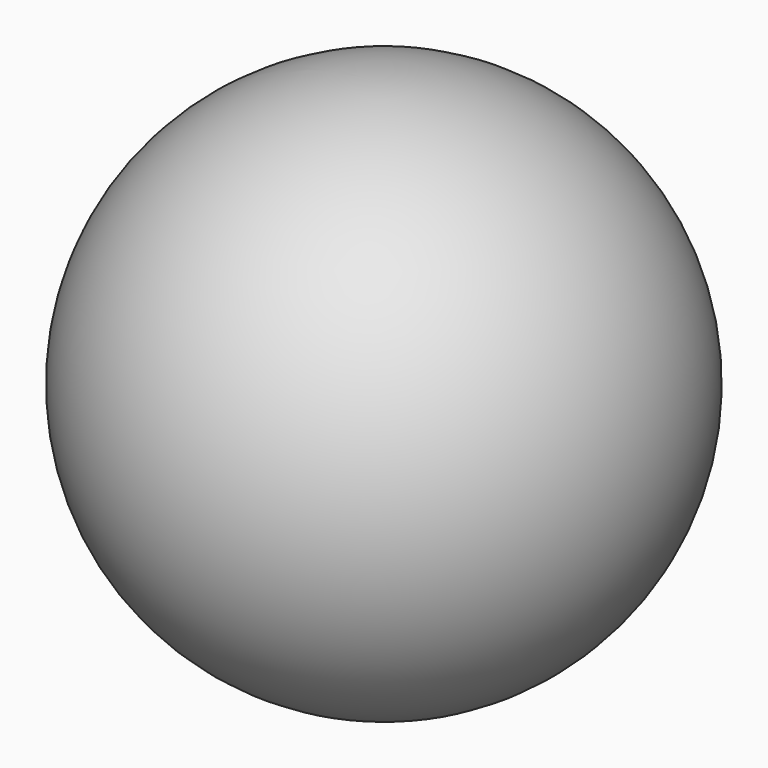
from build123d import *

# Parameters (mm, degrees)
F2_R     = 2
F3_DEPTH = 25


with BuildPart() as f1:
    # F0 (on Front) → F1 (revolve)
    with BuildSketch(Plane.XZ):
        with BuildLine():
            Line((0, -5), (0, 5))
            ThreePointArc((0, 5), (-5, 0), (0, -5))
        make_face()
    revolve(axis=Axis((0, 0, 0), (0, 0, -1)))

    # F2 (on Top) → F3 (cut)
    with BuildSketch(Plane.XY):
        Circle(F2_R)
    extrude(amount=-F3_DEPTH, mode=Mode.SUBTRACT)


solid = f1.part
